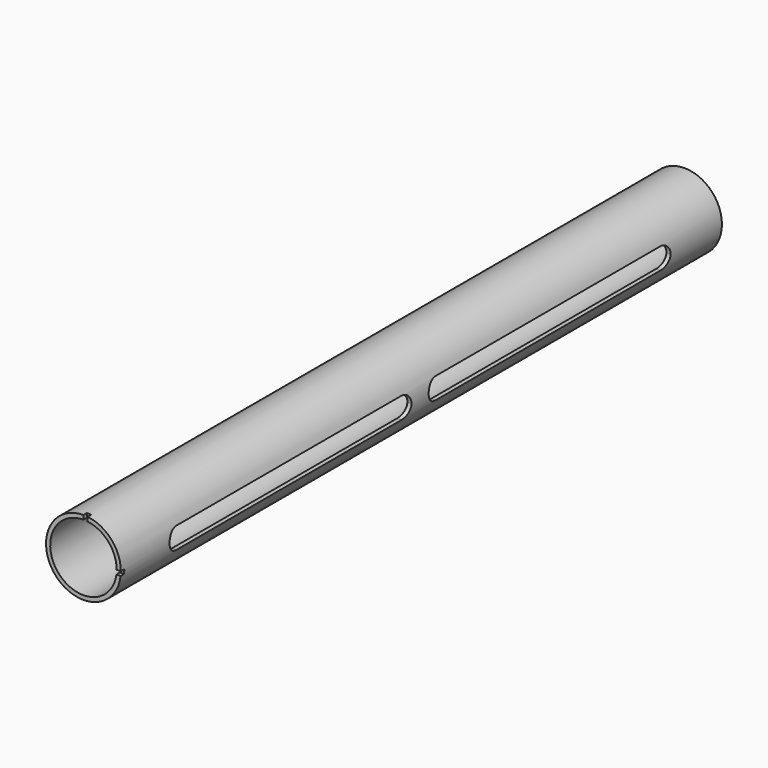
from build123d import *

# Parameters (mm, degrees)
F0_R     = 22.225
F0_R_2   = 19.75
F1_DEPTH = 446.405
F3_DEPTH = 63.5
F4_W     = 7.893423
F4_H     = 2.54
F4_W_2   = 2.54
F4_H_2   = 8.828171
F5_DEPTH = 2.54


with BuildPart() as f1:
    # F0 (on Front) → F1 (new body)
    with BuildSketch(Plane.XZ):
        Circle(F0_R)
        Circle(F0_R_2, mode=Mode.SUBTRACT)
    extrude(amount=F1_DEPTH)

    # F2 (on Right) → F3 (cut, symmetric)
    with BuildSketch(Plane.YZ):
        with BuildLine():
            ThreePointArc((-38.1, 0), (-39.959872, 4.490128), (-44.45, 6.35))
            Line((-44.45, 6.35), (-211.455, 6.35))
            ThreePointArc((-211.455, 6.35), (-215.945128, 4.490128), (-217.805, 0))
            ThreePointArc((-217.805, 0), (-215.945128, -4.490128), (-211.455, -6.35))
            Line((-211.455, -6.35), (-44.45, -6.35))
            ThreePointArc((-44.45, -6.35), (-39.959872, -4.490128), (-38.1, 0))
        make_face()
        with BuildLine():
            Line((-236.855, 6.35), (-403.86, 6.35))
            ThreePointArc((-403.86, 6.35), (-408.350128, 4.490128), (-410.21, 0))
            ThreePointArc((-410.21, 0), (-408.350128, -4.490128), (-403.86, -6.35))
            Line((-403.86, -6.35), (-236.855, -6.35))
            ThreePointArc((-236.855, -6.35), (-232.364872, -4.490128), (-230.505, 0))
            ThreePointArc((-230.505, 0), (-232.364872, 4.490128), (-236.855, 6.35))
        make_face()
    extrude(amount=F3_DEPTH, both=True, mode=Mode.SUBTRACT)

    # F4 (on face) → F5 (cut)
    with BuildSketch(Plane.XZ.offset(446.405)):
        with Locations((22.911058, -1.27)):
            Rectangle(F4_W, F4_H)
        with Locations((1.27, 24.07)):
            Rectangle(F4_W_2, F4_H_2)
    extrude(amount=-F5_DEPTH, mode=Mode.SUBTRACT)


solid = f1.part
